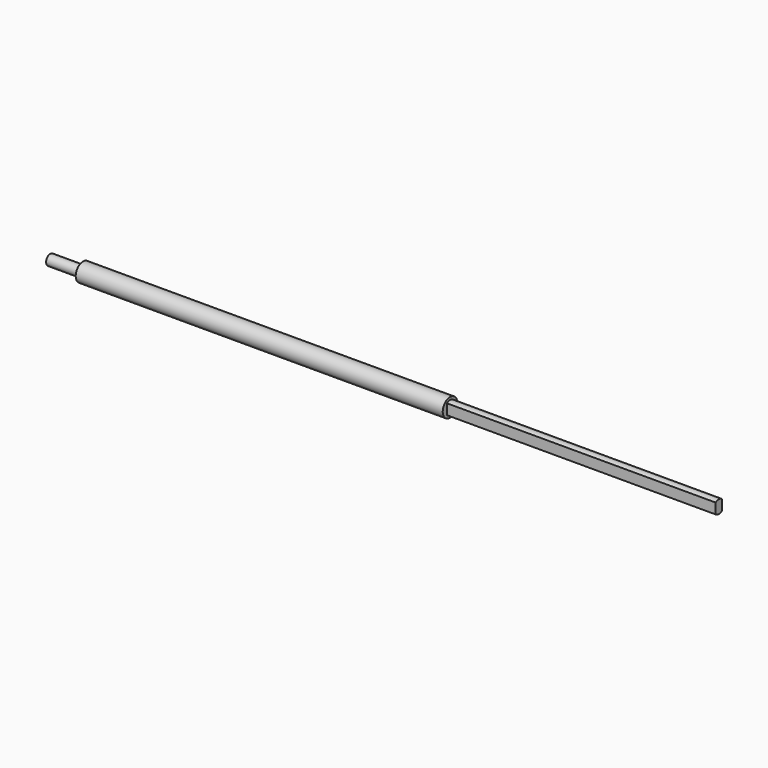
from build123d import *

# Parameters (mm, degrees)
F3_DEPTH = 205


with BuildPart() as f1:
    # F0 (on Front) → F1 (revolve)
    with BuildSketch(Plane.XZ):
        Polygon((0, 4), (0, 0), (510, 0), (510, 5), (305, 5), (305, 7), (25, 7), (25, 4), align=None)
    revolve(axis=Axis((255, 0, 0), (1, 0, 0)))

    # F2 (on face) → F3 (cut)
    with BuildSketch(Plane.YZ.offset(510)):
        with BuildLine():
            ThreePointArc((-3, 4), (-5, 0), (-3, -4))
            Line((-3, -4), (-3, 4))
        make_face()
        with BuildLine():
            Line((3, 4), (3, -4))
            ThreePointArc((3, -4), (4.472136, -2.236068), (5, 0))
            ThreePointArc((5, 0), (4.472136, 2.236068), (3, 4))
        make_face()
    extrude(amount=-F3_DEPTH, mode=Mode.SUBTRACT)


solid = f1.part
